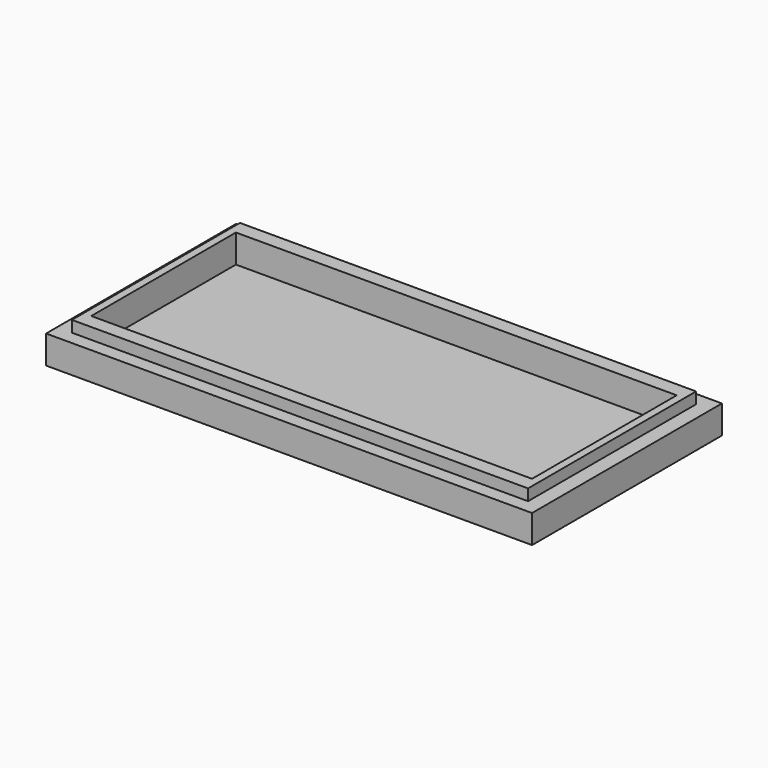
from build123d import *

# Parameters (mm, degrees)
SKETCH010_W     = 86
SKETCH010_H     = 42
PAD004_DEPTH    = 5
SKETCH012_W     = 80.73
SKETCH012_H     = 37.17
PAD005_DEPTH    = 2
SKETCH013_W     = 78
SKETCH013_H     = 32
POCKET006_DEPTH = 5


with BuildPart() as part:
    # Sketch010 → Pad004 (new body)
    with BuildSketch(Plane.XY):
        with Locations((0, 71.102745)):
            Rectangle(SKETCH010_W, SKETCH010_H)
    extrude(amount=PAD004_DEPTH)

    # Sketch012 (on Face6 of Pad004) → Pad005 (join)
    with BuildSketch(Plane.XY.offset(5)):
        with Locations((0, 71.102234)):
            Rectangle(SKETCH012_W, SKETCH012_H)
    extrude(amount=PAD005_DEPTH)

    # Sketch013 (on Face11 of Pad005) → Pocket006 (cut)
    with BuildSketch(Plane.XY.offset(7)):
        with Locations((0, 71.096275)):
            Rectangle(SKETCH013_W, SKETCH013_H)
    extrude(amount=-POCKET006_DEPTH, mode=Mode.SUBTRACT)


solid = part.part
